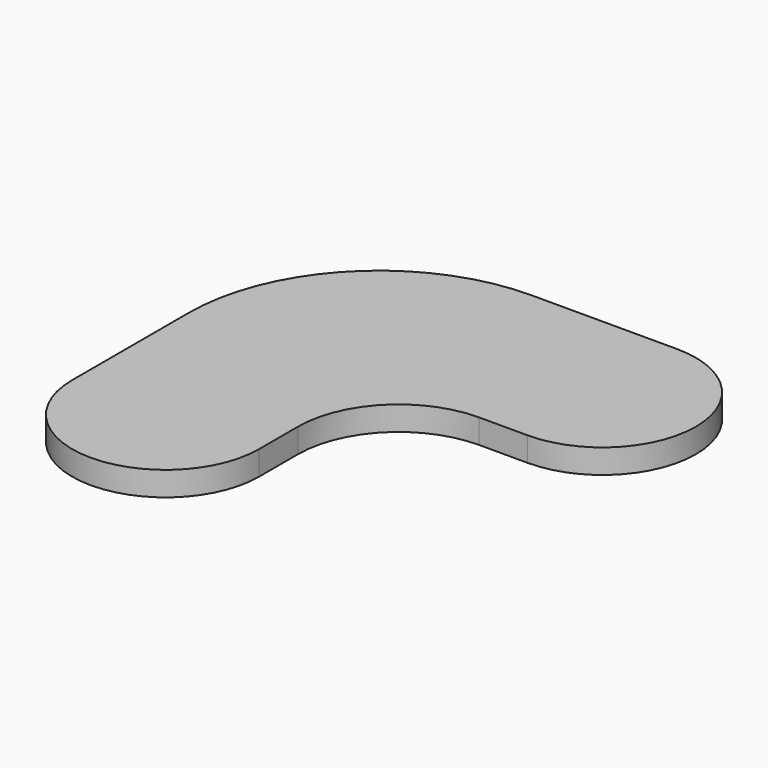
from build123d import *

# Parameters (mm, degrees)
PAD_DEPTH = 1


with BuildPart() as part:
    # Sketch → Pad (new body)
    with BuildSketch(Plane.XY):
        with BuildLine():
            Line((-4.15, 4.15), (-2.15, 4.15))
            ThreePointArc((-2.15, 4.15), (1.7, 8), (-2.15, 11.85))
            Line((-2.15, 11.85), (-8.15, 11.85))
            ThreePointArc((-8.15, 11.85), (-13.700788, 9.550788), (-16, 4))
            Line((-16, 4), (-16, -2))
            ThreePointArc((-16, -2), (-12.15, -5.85), (-8.3, -2))
            Line((-8.3, 0), (-8.3, -2))
            ThreePointArc((-4.15, 4.15), (-7.084493, 2.934493), (-8.3, 0))
        make_face()
    extrude(amount=PAD_DEPTH)


solid = part.part
